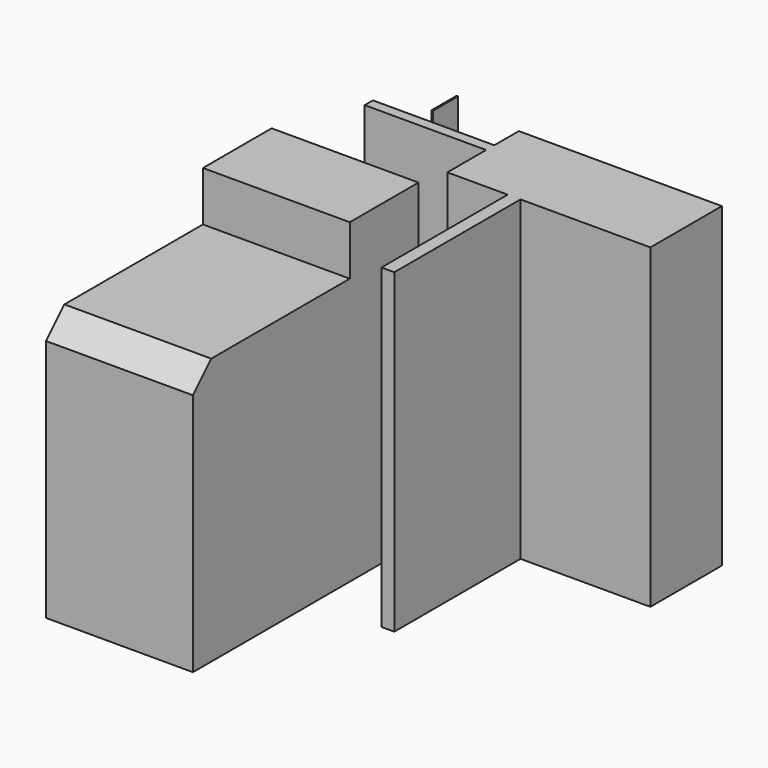
from build123d import *

# Parameters (mm, degrees)
F0_W     = 64.0341192484
F0_H     = 37.4616123736
F1_DEPTH = 116.3293346763
F2_DEPTH = 85.5063274503
F3_SIZE  = 10
F0_W_2   = 5.6003332138
F0_H_2   = 33.2702100277
F0_H_3   = 68.8130073249
F0_W_3   = 23.4771911055
F0_H_4   = 4.4920668006
F0_W_4   = 52.9409237206
F4_DEPTH = 138.0061507225
F0_W_5   = 0.6573721766
F0_H_5   = 13.6995092034


with BuildPart() as f1:
    # F0 (on Top) → F1 (new body)
    with BuildSketch(Plane.XY):
        with Locations((-32.0170596242, -30.7380165905)):
            Rectangle(F0_W, F0_H)
    extrude(amount=F1_DEPTH)

    # F2 (add): a face of the model
    f2_faces = [f1.faces().sort_by_distance(p)[0] for p in [
        (-32.0170596242, -49.4688227773, 58.1646673381),
    ]]
    extrude(f2_faces, amount=F2_DEPTH)

    # F3
    f3_edges = [f1.edges().sort_by_distance(p)[0] for p in [
        (-32.01706, -134.97515, 116.329335),
    ]]
    chamfer(f3_edges, length=F3_SIZE)

    # F0 (on Top) → F4, piece 3 (join)
    with BuildSketch(Plane.XY):
        with Locations((-32.0170596242, -30.7380165905)):
            Rectangle(F0_W, F0_H)
    extrude(amount=F4_DEPTH)


with BuildPart() as f4:
    # F0 (on Top) → F4 (new body)
    with BuildSketch(Plane.XY):
        with Locations((32.0847071707, 16.6351050138)):
            Rectangle(F0_W_2, F0_H_2)
        Polygon((29.2845405638, 33.2702100277), (34.8848737776, 33.2702100277), (34.8848737776, 0), (91.535128653, 0), (91.535128653, 38.980551064), (2.96985358, 38.980551064), (2.96985358, 25.6301015615), (26.4470446855, 25.6301015615), (26.4470446855, 21.138034761), (2.96985358, 21.138034761), (2.96985358, 0), (29.2845405638, 0), align=None)
        with Locations((32.0847071707, -34.4065036625)):
            Rectangle(F0_W_2, F0_H_3)
        with Locations((14.7084491327, 23.3840681612)):
            Rectangle(F0_W_3, F0_H_4)
        with Locations((-23.5006082803, 23.3840681612)):
            Rectangle(F0_W_4, F0_H_4)
        Polygon((29.2845405638, 33.2702100277), (34.8848737776, 33.2702100277), (34.8848737776, 0), (91.535128653, 0), (91.535128653, 38.980551064), (2.96985358, 38.980551064), (2.96985358, 25.6301015615), (26.4470446855, 25.6301015615), (26.4470446855, 21.138034761), (2.96985358, 21.138034761), (2.96985358, 0), (29.2845405638, 0), align=None)
    extrude(amount=F4_DEPTH)


with BuildPart() as f4b:
    # F0 (on Top) → F4, piece 2 (new body)
    with BuildSketch(Plane.XY):
        with Locations((-29.5269098133, 39.2192713916)):
            Rectangle(F0_W_5, F0_H_5)
    extrude(amount=F4_DEPTH)


solid = Compound([f1.part, f4.part, f4b.part])
